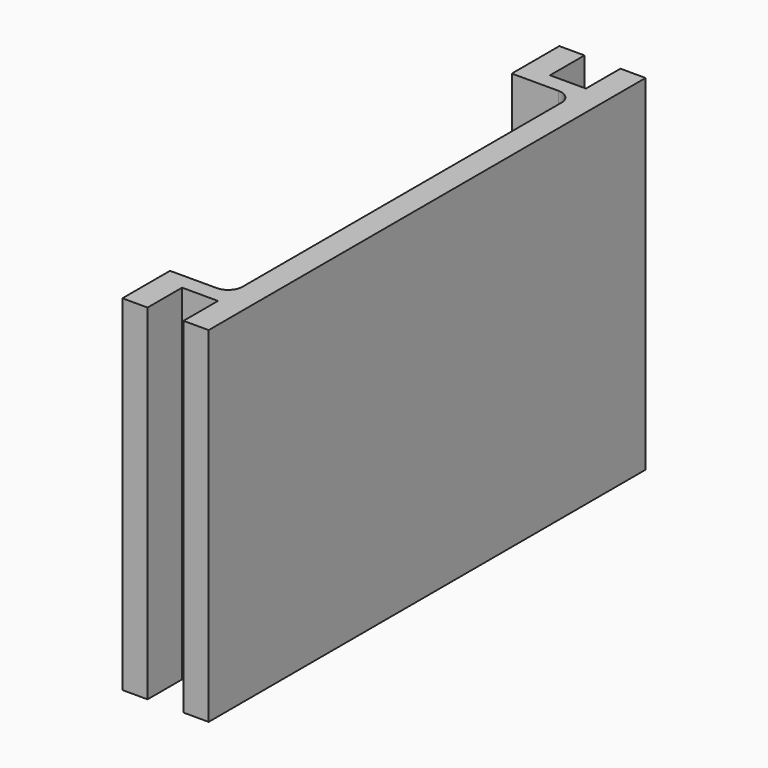
from build123d import *

# Parameters (mm, degrees)
F1_DEPTH = 304.8
F2_R     = 12.7


with BuildPart() as f1:
    # F0 (on Top) → F1 (new body)
    with BuildSketch(Plane.XY):
        Polygon((0, 52.552884), (0, 0), (22.225, 0), (22.225, 38.1), (53.975, 38.1), (53.975, 0), (76.2, 0), (76.2, 482.6), (53.975, 482.6), (53.975, 444.5), (22.225, 444.5), (22.225, 482.6), (0, 482.6), (0, 430.047116), (22.225, 430.047116), (53.975, 430.047116), (53.975, 52.552884), (22.225, 52.552884), align=None)
    extrude(amount=F1_DEPTH)

    # F2
    f2_edges = [f1.edges().sort_by_distance(p)[0] for p in [
        (53.975, 430.047116, 152.4),
        (53.975, 52.552884, 152.4),
    ]]
    fillet(f2_edges, radius=F2_R)


solid = f1.part
